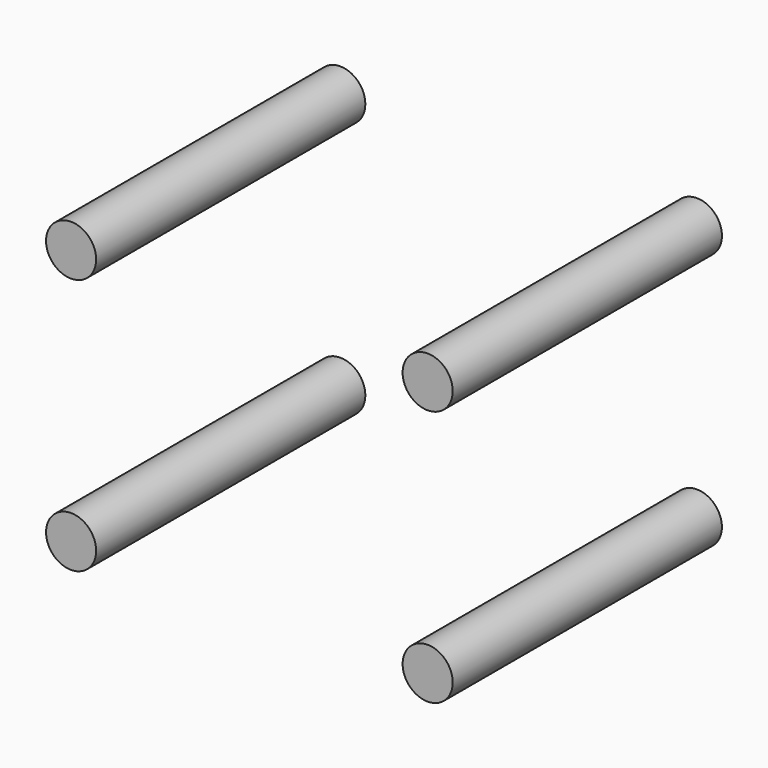
from build123d import *

# Parameters (mm, degrees)
F0_R     = 3.782645
F1_DEPTH = 50.8


with BuildPart() as f1:
    # F0 (on Front) → F1 (new body)
    with BuildSketch(Plane.XZ):
        with Locations((-26.915807, 19.357258)):
            Circle(F0_R)
        with Locations((26.915807, 19.357258)):
            Circle(F0_R)
        with Locations((26.915807, -19.357258)):
            Circle(F0_R)
        with Locations((-26.915807, -19.357258)):
            Circle(F0_R)
    extrude(amount=F1_DEPTH)


solid = f1.part
